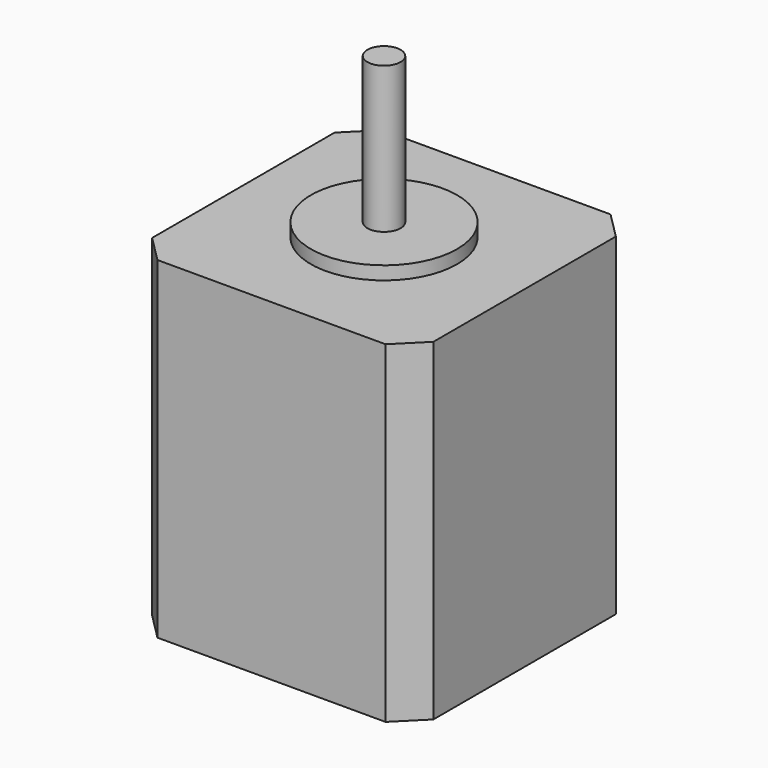
from build123d import *

# Parameters (mm, degrees)
SKETCH_W        = 42.3
SKETCH_H        = 42.3
PAD_DEPTH       = 50
SKETCH001_R     = 11
PAD001_DEPTH    = 2
SKETCH002_R     = 2.5
PAD002_DEPTH    = 22
CHAMFER_SIZE    = 4
CHAMFER001_SIZE = 4
CHAMFER002_SIZE = 4
CHAMFER003_SIZE = 4


with BuildPart() as part:
    # Sketch → Pad (new body)
    with BuildSketch(Plane.XY):
        Rectangle(SKETCH_W, SKETCH_H)
    extrude(amount=PAD_DEPTH)

    # Sketch001 → Pad001 (new body)
    with BuildSketch(Plane.XY.offset(50)):
        Circle(SKETCH001_R)
    extrude(amount=PAD001_DEPTH)

    # Sketch002 → Pad002 (new body)
    with BuildSketch(Plane.XY.offset(52)):
        Circle(SKETCH002_R)
    extrude(amount=PAD002_DEPTH)

    # Chamfer
    chamfer_edges = [part.edges().sort_by_distance(p)[0] for p in [
        (-21.15, -21.15, 25),
    ]]
    chamfer(chamfer_edges, length=CHAMFER_SIZE)

    # Chamfer001
    chamfer001_edges = [part.edges().sort_by_distance(p)[0] for p in [
        (-21.15, 21.15, 25),
    ]]
    chamfer(chamfer001_edges, length=CHAMFER001_SIZE)

    # Chamfer002
    chamfer002_edges = [part.edges().sort_by_distance(p)[0] for p in [
        (21.15, 21.15, 25),
    ]]
    chamfer(chamfer002_edges, length=CHAMFER002_SIZE)

    # Chamfer003
    chamfer003_edges = [part.edges().sort_by_distance(p)[0] for p in [
        (21.15, -21.15, 25),
    ]]
    chamfer(chamfer003_edges, length=CHAMFER003_SIZE)


solid = part.part
